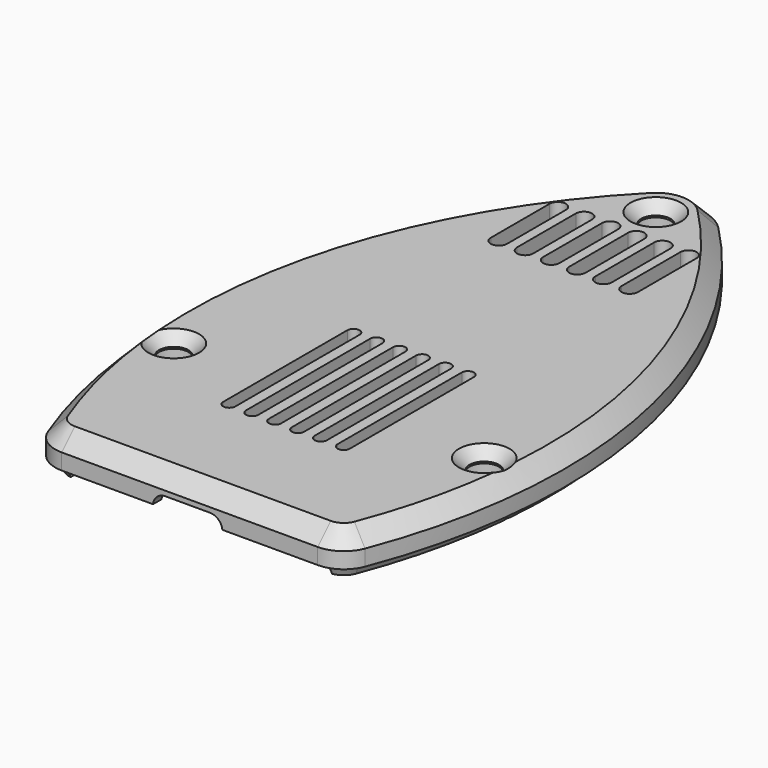
from build123d import *

# Parameters (mm, degrees)
SKETCH041_W            = 50
SKETCH041_H            = 4.45
PAD014_DEPTH           = 80
PAD013_DEPTH           = 8
SKETCH042_R            = 3
POCKET011_DEPTH        = 5
PAD011_DEPTH           = 6.5
CHAMFER_SIZE           = 2
SKETCH020_W            = 32
SKETCH020_H            = 40
POCKET004_DEPTH        = 4.5
SKETCH021_W            = 16
SKETCH021_H            = 13
POCKET005_DEPTH        = 3
POCKET006_DEPTH        = 2
PAD012_DEPTH           = 2.5
POCKET007_DEPTH        = 5
POCKET008_DEPTH        = 6.501
LINEARPATTERN001_COUNT = 6
LINEARPATTERN001_PITCH = 2.8
POCKET009_DEPTH        = 6.501
POCKET009_DEPTH_BACK   = 6.501
LINEARPATTERN002_COUNT = 6
LINEARPATTERN002_PITCH = 3.2


with BuildPart() as separation_top:
    # Sketch041 → Pad014 (new body)
    with BuildSketch(Plane.XZ.offset(2)):
        with Locations((0, 4.775)):
            Rectangle(SKETCH041_W, SKETCH041_H)
    extrude(amount=-PAD014_DEPTH)

    # AdditivePipe: sweep along a path in Sketch033
    with BuildLine(Plane.XY) as additivepipe_path:
        Line((5.5, 0.7), (15.664513, 0.7))
        ThreePointArc((15.664513, 0.7), (16.796157, 1.050945), (17.530656, 1.980617))
        ThreePointArc((17.530656, 1.980617), (20.610558, 39.551278), (2.853097, 72.80354))
        ThreePointArc((2.853097, 72.80354), (1e-05, 74), (-2.853084, 72.803553))
        ThreePointArc((-2.853084, 72.803553), (-20.610556, 39.551287), (-17.530656, 1.980617))
        ThreePointArc((-17.530656, 1.980617), (-16.796157, 1.050945), (-15.664513, 0.7))
        Line((-15.664513, 0.7), (-5.5, 0.7))
    # Sketch032 → AdditivePipe (sweep)
    with BuildSketch(Plane.YZ):
        Polygon((75.182615, 3), (72.817385, 3), (73.75, 1), (74.25, 1), align=None)
    sweep(path=additivepipe_path.line)

    # Sketch040 → Pad013 (join)
    with BuildSketch(Plane.XY.offset(-2)):
        with BuildLine():
            ThreePointArc((-4.584919, 45.32271), (-5.584919, 44.32271), (-4.584919, 43.32271))
            Line((-4.584919, 43.32271), (4.584919, 43.32271))
            ThreePointArc((4.584919, 43.32271), (5.584919, 44.32271), (4.584919, 45.32271))
            Line((4.584919, 45.32271), (-4.584919, 45.32271))
        make_face()
    extrude(amount=PAD013_DEPTH)

    # Sketch042 → Pocket011 (cut)
    with BuildSketch(Plane.XY):
        with Locations((19, 20)):
            Circle(SKETCH042_R)
        with Locations((-19, 20)):
            Circle(SKETCH042_R)
        with Locations((0, 70)):
            Circle(SKETCH042_R)
    extrude(amount=POCKET011_DEPTH, mode=Mode.SUBTRACT)


with BuildPart() as top_housing:
    # Sketch019 → Pad011 (new body, symmetric)
    with BuildSketch(Plane.XY):
        with BuildLine():
            ThreePointArc((4.279646, 74.20531), (0, 76), (-4.279646, 74.20531))
            ThreePointArc((-4.279646, 74.20531), (-22.568944, 39.95714), (-19.396798, 1.261235))
            ThreePointArc((-19.396798, 1.261235), (-17.9278, -0.59811), (-15.664513, -1.3))
            Line((15.664513, -1.3), (-15.664513, -1.3))
            ThreePointArc((15.664513, -1.3), (17.927792, -0.598116), (19.396791, 1.261217))
            ThreePointArc((19.396791, 1.261217), (22.568946, 39.95713), (4.279646, 74.20531))
        make_face()
    extrude(amount=PAD011_DEPTH, both=True)

    # Chamfer
    chamfer_edges = [top_housing.edges().sort_by_distance(p)[0] for p in [
        (0, -1.3, 6.5),
        (0, -1.3, -6.5),
    ]]
    chamfer(chamfer_edges, length=CHAMFER_SIZE)

    # Sketch020 → Pocket004 (cut)
    with BuildSketch(Plane.XY):
        with Locations((0, 20)):
            Rectangle(SKETCH020_W, SKETCH020_H)
    extrude(amount=POCKET004_DEPTH, mode=Mode.SUBTRACT)

    # Sketch021 → Pocket005 (cut)
    with BuildSketch(Plane.XY):
        with Locations((0, 57)):
            Rectangle(SKETCH021_W, SKETCH021_H)
    extrude(amount=POCKET005_DEPTH, mode=Mode.SUBTRACT)

    # Sketch022 → Pocket006 (cut, symmetric)
    with BuildSketch(Plane.XY):
        with BuildLine():
            ThreePointArc((-6.35, 54.4), (-8.125922, 53.319838), (-7.98356, 51.246101))
            ThreePointArc((-14.445285, 32.796789), (-6.459474, 40.356063), (-7.98356, 51.246101))
            ThreePointArc((-14.445285, 32.796789), (-15.279151, 32.221131), (-15.6, 31.26))
            Line((-15.6, 8.4), (-15.6, 31.26))
            ThreePointArc((-15.6, 8.4), (-15.131371, 7.268629), (-14, 6.8))
            Line((14, 6.8), (-14, 6.8))
            ThreePointArc((14, 6.8), (15.131371, 7.268629), (15.6, 8.4))
            Line((15.6, 31.26), (15.6, 8.4))
            ThreePointArc((15.6, 31.26), (15.279151, 32.221131), (14.445285, 32.796789))
            ThreePointArc((7.98356, 51.246101), (6.459474, 40.356063), (14.445285, 32.796789))
            ThreePointArc((7.98356, 51.246101), (8.125922, 53.319838), (6.35, 54.4))
            Line((6.35, 54.4), (-6.35, 54.4))
        make_face()
    extrude(amount=POCKET006_DEPTH, both=True, mode=Mode.SUBTRACT)

    # Sketch039 → Pad012 (join)
    with BuildSketch(Plane.XY.offset(-0.5)):
        with BuildLine():
            ThreePointArc((-4.584919, 45.32271), (-5.584919, 44.32271), (-4.584919, 43.32271))
            Line((-4.584919, 43.32271), (4.584919, 43.32271))
            ThreePointArc((4.584919, 43.32271), (5.584919, 44.32271), (4.584919, 45.32271))
            Line((4.584919, 45.32271), (-4.584919, 45.32271))
        make_face()
    extrude(amount=PAD012_DEPTH)

    # Sketch023 → Pocket007 (cut, symmetric)
    with BuildSketch(Plane.XZ):
        with BuildLine():
            ThreePointArc((-3, 3.9), (-4.5, 2.4), (-3, 0.9))
            Line((-3, 0.9), (2.5, 0.9))
            ThreePointArc((2.5, 0.9), (4, 2.4), (2.5, 3.9))
            Line((2.5, 3.9), (-3, 3.9))
        make_face()
    extrude(amount=POCKET007_DEPTH, both=True, mode=Mode.SUBTRACT)

    # Sketch025 → Pocket008 (cut, through all)
    with BuildSketch(Plane.XY):
        with BuildLine():
            ThreePointArc((-6.25, 32.5), (-7, 33.25), (-7.75, 32.5))
            Line((-7.75, 32.5), (-7.75, 13.5))
            ThreePointArc((-7.75, 13.5), (-7, 12.75), (-6.25, 13.5))
            Line((-6.25, 13.5), (-6.25, 32.5))
        make_face()
    pocket008 = extrude(amount=POCKET008_DEPTH, mode=Mode.SUBTRACT)

    # LinearPattern001: Pocket008 ×6
    with Locations(*[(i * LINEARPATTERN001_PITCH, 0, 0) for i in range(1, LINEARPATTERN001_COUNT)]):
        add(pocket008, mode=Mode.SUBTRACT)

    # Sketch026 → Pocket009 (cut, two sides)
    with BuildSketch(Plane.XY) as pocket009_sk:
        with BuildLine():
            ThreePointArc((-7, 65), (-8, 66), (-9, 65))
            Line((-9, 65), (-9, 56))
            ThreePointArc((-9, 56), (-8, 55), (-7, 56))
            Line((-7, 56), (-7, 65))
        make_face()
    pocket009 = extrude(amount=-POCKET009_DEPTH, mode=Mode.SUBTRACT) + extrude(pocket009_sk.sketch, amount=POCKET009_DEPTH_BACK, mode=Mode.SUBTRACT)

    # LinearPattern002: Pocket009 ×6
    with Locations(*[(i * LINEARPATTERN002_PITCH, 0, 0) for i in range(1, LINEARPATTERN002_COUNT)]):
        add(pocket009, mode=Mode.SUBTRACT)

    # Sketch027 → Groove (revolve, cut)
    with BuildSketch(Plane.XZ.offset(-20)):
        Polygon((19, 6.7), (19, -5.8), (19.4, -5.8), (20.8, 5.2), (22.3, 6.7), align=None)
    groove = revolve(axis=Axis((19, 20, 6.7), (0, 0, 1)), mode=Mode.SUBTRACT)

    # Mirrored: Groove across YZ
    add(groove.mirror(Plane.YZ), mode=Mode.SUBTRACT)

    # Sketch028 → Groove001 (revolve, cut)
    with BuildSketch(Plane.XZ.offset(-70)):
        Polygon((0, 6.7), (0, -5.8), (0.4, -5.8), (1.8, 5.2), (3.3, 6.7), align=None)
    revolve(axis=Axis((0, 70, 6.7), (0, 0, 1)), mode=Mode.SUBTRACT)

    # Common: intersect Separation top
    add(separation_top.part, mode=Mode.INTERSECT)


solid = top_housing.part
